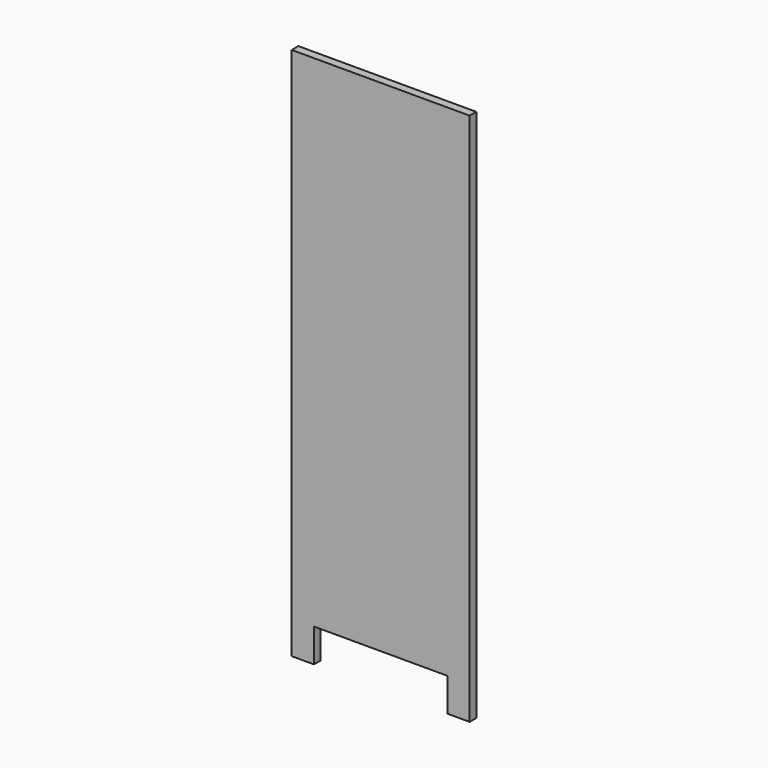
from build123d import *

# Parameters (mm, degrees)
F0_W     = 406.4
F0_H     = 19.05
F1_DEPTH = 1219.2
F2_W     = 304.8
F2_H     = 76.2
F3_DEPTH = 19.051


with BuildPart() as f1:
    # F0 (on Top) → F1 (new body)
    with BuildSketch(Plane.XY):
        with Locations((203.2, 9.525)):
            Rectangle(F0_W, F0_H)
    extrude(amount=F1_DEPTH)

    # F2 (on face) → F3 (cut, through all)
    with BuildSketch(Plane.XZ):
        with Locations((203.2, 38.1)):
            Rectangle(F2_W, F2_H)
    extrude(amount=-F3_DEPTH, mode=Mode.SUBTRACT)


solid = f1.part
